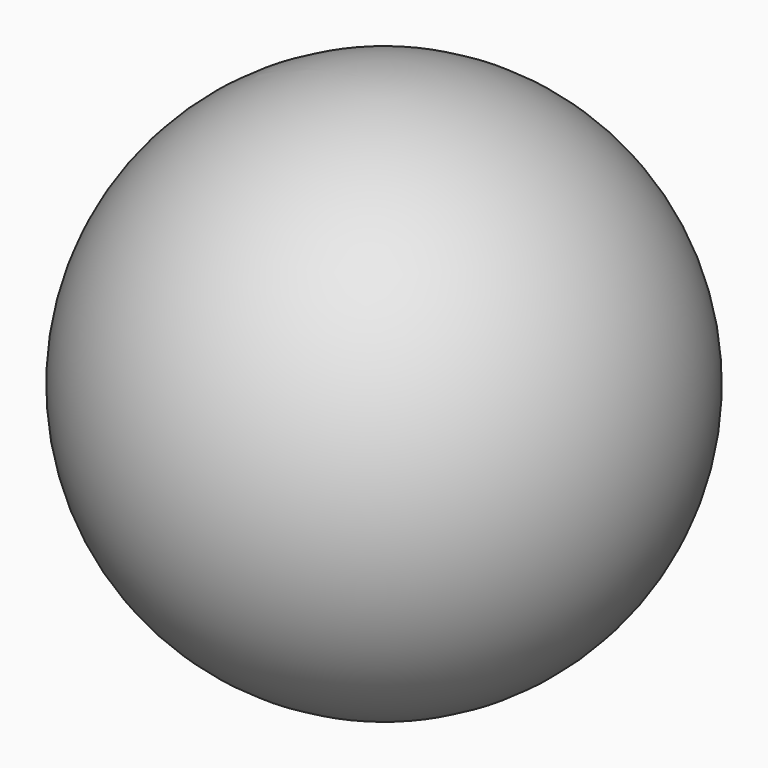
from build123d import *

# Parameters (mm, degrees)
PAD_DEPTH      = 1.75
SKETCH001_W    = 10
SKETCH001_H    = 1.75
POCKET_DEPTH   = 1.75
ARRAY_Z_COUNT  = 2
ARRAY_Z_PITCH  = 61.75
PAD001_DEPTH   = 0.875
PAD002_DEPTH   = 3
ARRAY001_COUNT = 6


with BuildPart() as end_caps:
    # Sketch → Pad (new body)
    with BuildSketch(Plane.XY):
        Polygon((5, -8.660254), (10, 0), (5, 8.660254), (-5, 8.660254), (-10, 0), (-5, -8.660254), align=None)
    extrude(amount=PAD_DEPTH)

    # Sketch001 (on Face8 of Pad) → Pocket (cut)
    with BuildSketch(Plane.XY.offset(1.75)):
        Rectangle(SKETCH001_W, SKETCH001_H)
    extrude(amount=-POCKET_DEPTH, mode=Mode.SUBTRACT)

    # Array Z: End_Caps ×2


with BuildPart() as end_caps_1:
    add(end_caps.part)
    with Locations(*[(0, 0, i * ARRAY_Z_PITCH) for i in range(1, ARRAY_Z_COUNT)]):
        add(end_caps.part)


with BuildPart() as centre_body:
    # Sketch002 → Pad001 (new body, symmetric)
    with BuildSketch(Plane.XZ):
        Polygon((-5, 0), (5, 0), (5, 1.75), (7.5, 1.75), (7.5, 61.75), (5, 61.75), (5, 63.5), (-5, 63.5), (-5, 61.75), (-7.5, 61.75), (-7.5, 1.75), (-5, 1.75), align=None)
    extrude(amount=PAD001_DEPTH, both=True)


with BuildPart() as led_arc_array:
    # Sketch004 → Pad002 (new body, symmetric)
    with BuildSketch(Plane.YZ):
        with BuildLine():
            ThreePointArc((-8.660312, 63.5), (-32.909923, 31.749978), (-8.660254, 0))
            Line((-8.660254, 0), (-6.910254, 0))
            Line((-6.910254, 0), (-6.910254, -1.75))
            Line((-9.137594, -1.75), (-6.910254, -1.75))
            ThreePointArc((-9.137652, 65.25), (-34.723856, 31.749978), (-9.137594, -1.75))
            Line((-6.910312, 65.25), (-9.137652, 65.25))
            Line((-6.910312, 63.5), (-6.910312, 65.25))
            Line((-8.660312, 63.5), (-6.910312, 63.5))
        make_face()
    extrude(amount=PAD002_DEPTH, both=True)

    # Array001: LED_Arc_Array ×6 about axis
    array001_axis = Axis((0, 0, 0), (0, 0, 1))


with BuildPart() as led_arc_array_1:
    add(led_arc_array.part)
    for i in range(1, ARRAY001_COUNT):
        add(led_arc_array.part.rotate(array001_axis, i * 360 / ARRAY001_COUNT))


with BuildPart() as glass_ball:
    # Sketch005 → Revolution (revolve)
    with BuildSketch(Plane.XZ):
        with BuildLine():
            ThreePointArc((0, 70.25), (-38.5, 31.75), (0, -6.75))
            Line((0, -8.25), (0, -6.75))
            ThreePointArc((0, 71.75), (-40, 31.75), (0, -8.25))
            Line((0, 70.25), (0, 71.75))
        make_face()
    revolve(axis=Axis((0, 0, 0), (0, 0, 1)))


solid = Compound([end_caps_1.part, centre_body.part, led_arc_array_1.part, glass_ball.part])
